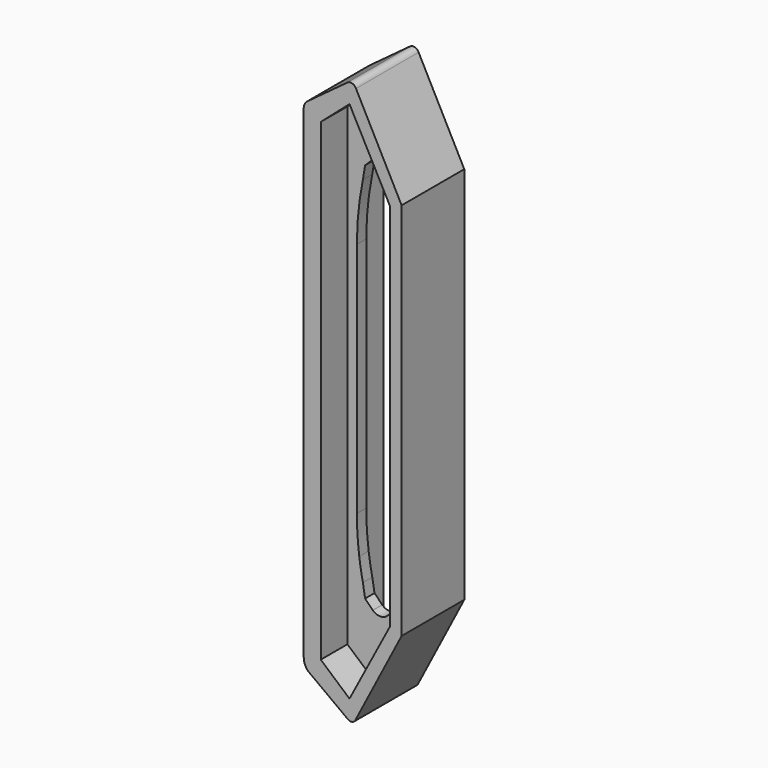
from build123d import *

# Parameters (mm, degrees)
F1_DEPTH      = 10
F1_DEPTH_BACK = 10
F2_DEPTH      = 1.5
F2_DEPTH_BACK = 1.5


with BuildPart() as f1:
    # F0 (on Front) → F1 (new body, two sides)
    with BuildSketch(Plane.XZ) as f1_sk:
        with BuildLine():
            ThreePointArc((-13.324156, 118.097166), (-13.881395, 117.360963), (-14.102473, 116.464507))
            Line((-14.102473, 116.464507), (-14.102473, -7.006478))
            ThreePointArc((-14.102473, -7.006478), (-13.832288, -8.489583), (-13.065432, -9.787477))
            Line((-13.065432, -9.787477), (-2.94512, -17.258489))
            ThreePointArc((-2.94512, -17.258489), (-1.874738, -17.617368), (-0.943456, -16.979226))
            Line((-0.943456, -16.979226), (10.897527, 5.84745))
            Line((10.897527, 5.84745), (10.897527, 102.653235))
            Line((10.897527, 102.653235), (-0.755561, 125.117692))
            ThreePointArc((-0.755561, 125.117692), (-1.791163, 125.984981), (-3.09869, 125.645806))
            Line((-3.09869, 125.645806), (-13.324156, 118.097166))
        make_face()
        Polygon((-9.750629, 114.701789), (-2.41249, 121.089756), (7.918673, 101.521499), (7.918673, 54.250342), (7.918673, 6.979185), (-2.41249, -12.589072), (-9.750629, -6.201104), (-9.750629, 54.250342), align=None, mode=Mode.SUBTRACT)
    extrude(amount=F1_DEPTH)
    extrude(f1_sk.sketch, amount=-F1_DEPTH_BACK)

    # F0 (on Front) → F2 (join, two sides)
    with BuildSketch(Plane.XZ) as f2_sk:
        Polygon((7.918673, 101.521499), (-2.41249, 121.089756), (-9.750629, 114.701789), (-9.750629, 54.250342), (-9.750629, -6.201104), (-2.41249, -12.589072), (7.918673, 6.979185), (7.918673, 54.250342), align=None)
        with BuildLine():
            Line((-7.322337, 24.024619), (-7.322337, 54.250342))
            Line((-7.322337, 54.250342), (-7.322337, 84.476066))
            ThreePointArc((-7.322337, 84.476066), (-6.944426, 92.04211), (-5.796494, 99.530106))
            Line((-5.796494, 99.530106), (-5.227204, 102.94417))
            Line((-5.227204, 102.94417), (-3.268526, 104.904095))
            ThreePointArc((-3.268526, 104.904095), (-3.240001, 104.93308), (-3.211035, 104.961623))
            ThreePointArc((-3.211035, 104.961623), (-1.657966, 105.691937), (0.016135, 105.314094))
            Line((0.016135, 105.314094), (3.597074, 102.242954))
            ThreePointArc((3.597074, 102.242954), (4.310999, 101.534088), (4.647527, 100.585968))
            Line((4.647527, 100.585968), (4.647527, 95.035076))
            Line((4.647527, 95.035076), (4.647527, 93.249116))
            Line((4.647527, 93.249116), (4.647527, 83.456136))
            Line((4.647527, 83.456136), (4.647527, 80.438636))
            ThreePointArc((4.647527, 80.438636), (6.836623, 76.45537), (4.647527, 72.472103))
            Line((4.647527, 72.472103), (4.647527, 68.380333))
            ThreePointArc((4.647527, 68.380333), (7.171764, 61.77175), (4.647527, 55.163167))
            Line((4.647527, 55.163167), (4.647527, 54.250342))
            Line((4.647527, 54.250342), (4.647527, 53.337517))
            ThreePointArc((4.647527, 53.337517), (7.108347, 46.728934), (4.647527, 40.120351))
            Line((4.647527, 40.120351), (4.647527, 36.028582))
            ThreePointArc((4.647527, 36.028582), (6.744842, 32.045315), (4.647527, 28.062049))
            Line((4.647527, 28.062049), (4.647527, 25.044549))
            Line((4.647527, 25.044549), (4.647527, 15.251569))
            Line((4.647527, 15.251569), (4.647527, 13.465609))
            Line((4.647527, 13.465609), (4.647527, 7.914716))
            ThreePointArc((4.647527, 7.914716), (4.310999, 6.966597), (3.597074, 6.257731))
            Line((3.597074, 6.257731), (0.639996, 3.721636))
            ThreePointArc((0.639996, 3.721636), (-1.245968, 2.796092), (-3.211035, 3.539062))
            ThreePointArc((-3.211035, 3.539062), (-3.240001, 3.567604), (-3.268526, 3.596589))
            Line((-3.268526, 3.596589), (-5.227204, 5.556515))
            Line((-5.227204, 5.556515), (-5.796494, 8.970579))
            ThreePointArc((-5.796494, 8.970579), (-6.312561, 11.740083), (-6.723051, 14.527191))
            ThreePointArc((-6.723051, 14.527191), (-7.175217, 19.266281), (-7.322337, 24.024619))
        make_face(mode=Mode.SUBTRACT)
    extrude(amount=F2_DEPTH)
    extrude(f2_sk.sketch, amount=-F2_DEPTH_BACK)


solid = f1.part
